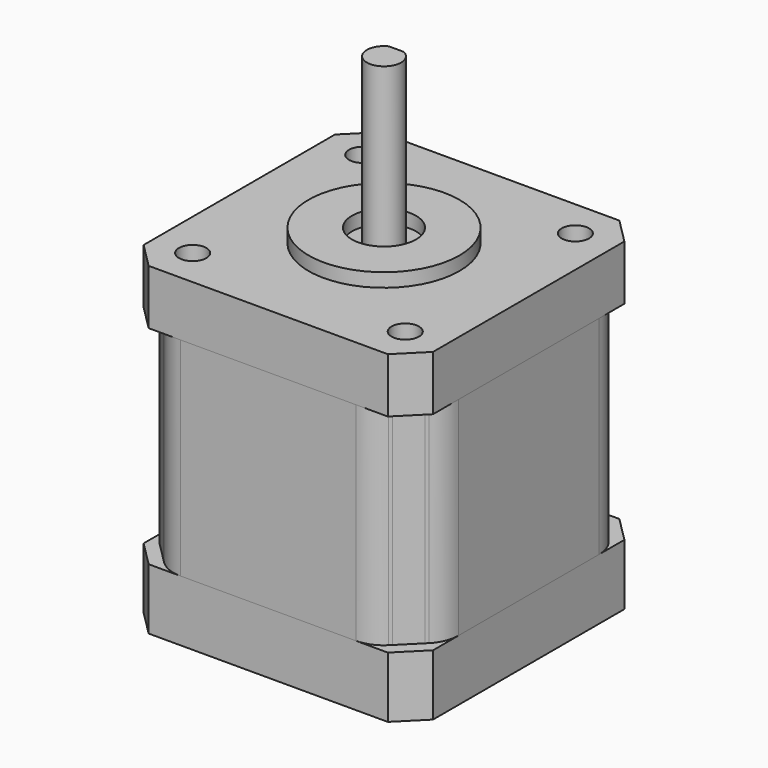
from build123d import *

# Parameters (mm, degrees)
F0_R      = 2
F0_R_2    = 11
F0_R_3    = 4.675
F1_DEPTH  = 8
F2_DEPTH  = 2
F4_R      = 3
F4_R_2    = 4.675
F4_R_3    = 2
F5_DEPTH  = 5.4
F6_DEPTH  = 3.5
F7_R      = 2
F8_DEPTH  = 30.3
F0_R_4    = 2.5
F9_DEPTH  = 24
F10_DEPTH = 47.2
F12_DEPTH = 15
F7_R_2    = 4.675
F13_DEPTH = 6.86
F14_R     = 4.675
F15_DEPTH = 6
F16_R     = 5
F16_R_2   = 4.675
F17_DEPTH = 2
F16_R_3   = 7
F18_DEPTH = 3
F19_R     = 7
F19_R_2   = 5
F20_DEPTH = 4
F21_R     = 4.675
F21_R_2   = 2.5
F22_DEPTH = 4
F23_W     = 10
F23_H     = 5.1584282339
F24_DEPTH = 2.7113987058
F25_W     = 1.3544890925
F25_H     = 5.1584282339
F26_DEPTH = 10


with BuildPart() as f1:
    # F0 (on Top) → F1 (new body)
    with BuildSketch(Plane.XY):
        Polygon((21.1, 17.4377582874), (17.4377582874, 21.1), (-17.4377582874, 21.1), (-21.1, 17.4377582874), (-21.1, -17.4377582874), (-17.4377582874, -21.1), (17.4377582874, -21.1), (21.1, -17.4377582874), align=None)
        with Locations((-15.5, -15.5)):
            Circle(F0_R, mode=Mode.SUBTRACT)
        with Locations((15.5, -15.5)):
            Circle(F0_R, mode=Mode.SUBTRACT)
        with Locations((-15.5, 15.5)):
            Circle(F0_R, mode=Mode.SUBTRACT)
        Circle(F0_R_2, mode=Mode.SUBTRACT)
        with Locations((15.5, 15.5)):
            Circle(F0_R, mode=Mode.SUBTRACT)
        Circle(F0_R_2)
        Circle(F0_R_3, mode=Mode.SUBTRACT)
    extrude(amount=-F1_DEPTH)

    # F0 (on Top) → F2 (join)
    with BuildSketch(Plane.XY):
        Circle(F0_R_2)
        Circle(F0_R_3, mode=Mode.SUBTRACT)
    extrude(amount=F2_DEPTH)

    # F14 (on face) → F15 (cut)
    with BuildSketch(Plane(origin=(0, 0, -8), x_dir=(1, 0, 0), z_dir=(0, 0, -1))):
        Polygon((-18.3913932674, -7.6149039267), (-7.6201286902, -18.3892290995), (7.6149039267, -18.3913932674), (18.3892290995, -7.6201286902), (18.3913932674, 7.6149039267), (7.6201286902, 18.3892290995), (-7.6149039267, 18.3913932674), (-18.3892290995, 7.6201286902), align=None)
        Circle(F14_R, mode=Mode.SUBTRACT)
    extrude(amount=-F15_DEPTH, mode=Mode.SUBTRACT)

    # F16 (on face) → F17 (cut)
    with BuildSketch(Plane(origin=(0, 0, -2), x_dir=(1, 0, 0), z_dir=(0, 0, -1))):
        Circle(F16_R)
        Circle(F16_R_2, mode=Mode.SUBTRACT)
    extrude(amount=-F17_DEPTH, mode=Mode.SUBTRACT)

    # F16 (on face) → F18 (join)
    with BuildSketch(Plane(origin=(0, 0, -2), x_dir=(1, 0, 0), z_dir=(0, 0, -1))):
        Circle(F16_R_3)
        Circle(F16_R, mode=Mode.SUBTRACT)
    extrude(amount=F18_DEPTH)


with BuildPart() as f5:
    # F4 (on offset) → F5 (new body)
    with BuildSketch(Plane.XY.offset(-43.7)):
        Polygon((21.1, 17.4377582874), (17.4377582874, 21.1), (-17.4377582874, 21.1), (-21.1, 17.4377582874), (-21.1, -17.4377582874), (-17.4377582874, -21.1), (17.4377582874, -21.1), (21.1, -17.4377582874), align=None)
        with Locations((-15.5, -15.5)):
            Circle(F4_R, mode=Mode.SUBTRACT)
        with Locations((15.5, -15.5)):
            Circle(F4_R, mode=Mode.SUBTRACT)
        with Locations((-15.5, 15.5)):
            Circle(F4_R, mode=Mode.SUBTRACT)
        Circle(F4_R_2, mode=Mode.SUBTRACT)
        with Locations((15.5, 15.5)):
            Circle(F4_R, mode=Mode.SUBTRACT)
        with Locations((15.5, 15.5)):
            Circle(F4_R)
        with Locations((15.5, 15.5)):
            Circle(F4_R_3, mode=Mode.SUBTRACT)
        with Locations((-15.5, 15.5)):
            Circle(F4_R)
        with Locations((-15.5, 15.5)):
            Circle(F4_R_3, mode=Mode.SUBTRACT)
        with Locations((-15.5, -15.5)):
            Circle(F4_R)
        with Locations((-15.5, -15.5)):
            Circle(F4_R_3, mode=Mode.SUBTRACT)
        with Locations((15.5, -15.5)):
            Circle(F4_R)
        with Locations((15.5, -15.5)):
            Circle(F4_R_3, mode=Mode.SUBTRACT)
    extrude(amount=F5_DEPTH)

    # F4 (on offset) → F6 (join)
    with BuildSketch(Plane.XY.offset(-43.7)):
        Polygon((21.1, 17.4377582874), (17.4377582874, 21.1), (-17.4377582874, 21.1), (-21.1, 17.4377582874), (-21.1, -17.4377582874), (-17.4377582874, -21.1), (17.4377582874, -21.1), (21.1, -17.4377582874), align=None)
        with Locations((-15.5, -15.5)):
            Circle(F4_R, mode=Mode.SUBTRACT)
        with Locations((15.5, -15.5)):
            Circle(F4_R, mode=Mode.SUBTRACT)
        with Locations((-15.5, 15.5)):
            Circle(F4_R, mode=Mode.SUBTRACT)
        Circle(F4_R_2, mode=Mode.SUBTRACT)
        with Locations((15.5, 15.5)):
            Circle(F4_R, mode=Mode.SUBTRACT)
    extrude(amount=-F6_DEPTH)

    # F7 (on face) → F13 (cut)
    with BuildSketch(Plane.XY.offset(-38.3)):
        Polygon((-7.6201286902, 18.3892290995), (-18.3913932674, 7.6149039267), (-18.3892290995, -7.6201286902), (-7.6149039267, -18.3913932674), (7.6201286902, -18.3892290995), (18.3913932674, -7.6149039267), (18.3892290995, 7.6201286902), (7.6149039267, 18.3913932674), align=None)
        Circle(F7_R_2, mode=Mode.SUBTRACT)
    extrude(amount=-F13_DEPTH, mode=Mode.SUBTRACT)

    # F19 (on face) → F20 (join)
    with BuildSketch(Plane.XY.offset(-45.16)):
        Circle(F19_R)
        Circle(F19_R_2, mode=Mode.SUBTRACT)
    extrude(amount=F20_DEPTH)

    # F23 (on face) → F24 (cut, through all)
    with BuildSketch(Plane(origin=(-21.1, 0, 0), x_dir=(0, -1, 0), z_dir=(-1, 0, 0))):
        with Locations((0, -40.8792141169)):
            Rectangle(F23_W, F23_H)
    extrude(amount=-F24_DEPTH, mode=Mode.SUBTRACT)


with BuildPart() as f8:
    # F7 (on face) → F8 (new body, through all)
    with BuildSketch(Plane.XY.offset(-38.3)):
        with BuildLine():
            Line((16.3566399692, -19.6355339059), (16.6921738752, -19.3))
            Line((16.6921738752, -19.3), (19.3, -16.6921738752))
            Line((19.3, -16.6921738752), (19.6355339059, -16.3566399692))
            ThreePointArc((19.6355339059, -16.3566399692), (20.7193976626, -14.7345232251), (21.1, -12.8211060633))
            Line((21.1, -12.8211060633), (21.1, 12.8211060633))
            ThreePointArc((21.1, 12.8211060633), (20.7193976626, 14.7345232251), (19.6355339059, 16.3566399692))
            Line((19.6355339059, 16.3566399692), (19.3, 16.6921738752))
            Line((19.3, 16.6921738752), (16.6921738752, 19.3))
            Line((16.6921738752, 19.3), (16.3566399692, 19.6355339059))
            ThreePointArc((16.3566399692, 19.6355339059), (14.7345232251, 20.7193976626), (12.8211060633, 21.1))
            Line((12.8211060633, 21.1), (-12.8211060633, 21.1))
            ThreePointArc((-12.8211060633, 21.1), (-14.7345232251, 20.7193976626), (-16.3566399692, 19.6355339059))
            Line((-16.3566399692, 19.6355339059), (-16.6884794085, 19.3036944667))
            Line((-16.6884794085, 19.3036944667), (-19.3, 16.6921738752))
            Line((-19.3, 16.6921738752), (-19.6355339059, 16.3566399692))
            ThreePointArc((-19.6355339059, 16.3566399692), (-20.7193976626, 14.7345232251), (-21.1, 12.8211060633))
            Line((-21.1, 12.8211060633), (-21.1, -12.8211060633))
            ThreePointArc((-21.1, -12.8211060633), (-20.7193976626, -14.7345232251), (-19.6355339059, -16.3566399692))
            Line((-19.6355339059, -16.3566399692), (-19.3, -16.6921738752))
            Line((-19.3, -16.6921738752), (-16.6921738752, -19.3))
            Line((-16.6921738752, -19.3), (-16.3566399692, -19.6355339059))
            ThreePointArc((-16.3566399692, -19.6355339059), (-14.7345232251, -20.7193976626), (-12.8211060633, -21.1))
            Line((-12.8211060633, -21.1), (12.8211060633, -21.1))
            ThreePointArc((12.8211060633, -21.1), (14.7345232251, -20.7193976626), (16.3566399692, -19.6355339059))
        make_face()
        with Locations((-15.5, -15.5)):
            Circle(F7_R, mode=Mode.SUBTRACT)
        with Locations((15.5, -15.5)):
            Circle(F7_R, mode=Mode.SUBTRACT)
        with Locations((-15.5, 15.5)):
            Circle(F7_R, mode=Mode.SUBTRACT)
        Polygon((-18.3892290995, -7.6201286902), (-18.3913932674, 7.6149039267), (-7.6201286902, 18.3892290995), (7.6149039267, 18.3913932674), (18.3892290995, 7.6201286902), (18.3913932674, -7.6149039267), (7.6201286902, -18.3892290995), (-7.6149039267, -18.3913932674), align=None, mode=Mode.SUBTRACT)
        with Locations((15.5, 15.5)):
            Circle(F7_R, mode=Mode.SUBTRACT)
    extrude(amount=F8_DEPTH)


with BuildPart() as f9:
    # F0 (on Top) → F9 (new body)
    with BuildSketch(Plane.XY):
        Circle(F0_R_4)
    extrude(amount=F9_DEPTH)

    # F0 (on Top) → F10 (join, through all)
    with BuildSketch(Plane.XY):
        Circle(F0_R_4)
    extrude(amount=-F10_DEPTH)

    # F11 (on face) → F12 (cut)
    with BuildSketch(Plane.XY.offset(24)):
        with BuildLine():
            Line((-1.0897247359, 2.25), (0, 2.25))
            Line((0, 2.25), (1.0897247359, 2.25))
            ThreePointArc((1.0897247359, 2.25), (0, 2.5), (-1.0897247359, 2.25))
        make_face()
    extrude(amount=-F12_DEPTH, mode=Mode.SUBTRACT)


with BuildPart() as f22:
    # F21 (on face) → F22 (new body)
    with BuildSketch(Plane(origin=(0, 0, 0), x_dir=(1, 0, 0), z_dir=(0, 0, -1))):
        Circle(F21_R)
        Circle(F21_R_2, mode=Mode.SUBTRACT)
    extrude(amount=F22_DEPTH)


with BuildPart() as f26:
    # F25 (on face) → F26 (new body, through all)
    with BuildSketch(Plane.XZ.offset(-5)):
        with Locations((-19.0682663611, -40.8792141169)):
            Rectangle(F25_W, F25_H)
    extrude(amount=F26_DEPTH)


solid = Compound([f1.part, f5.part, f8.part, f9.part, f22.part, f26.part])
